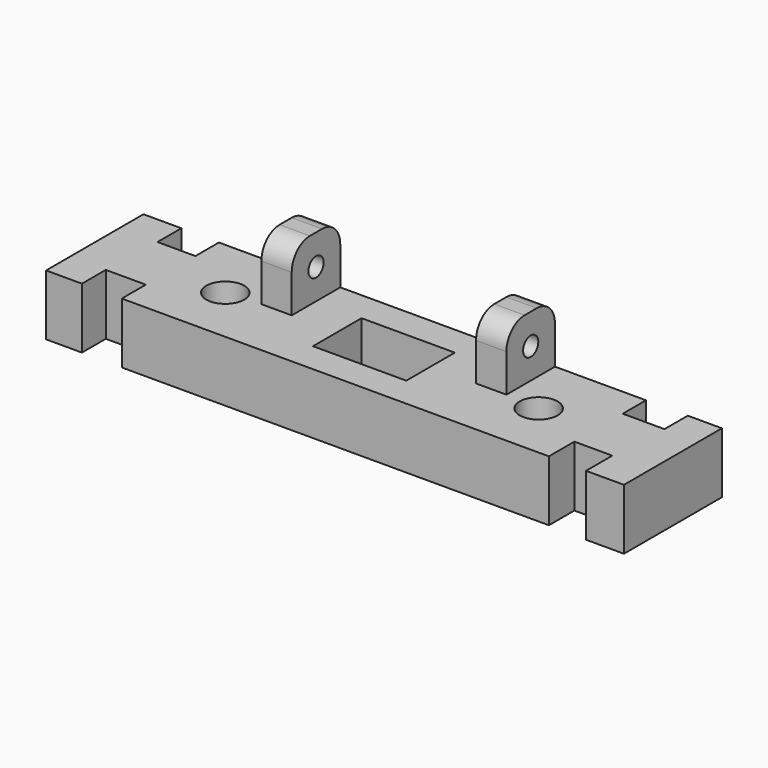
from build123d import *

# Parameters (mm, degrees)
F0_R     = 2.5
F0_W     = 12.3
F0_H     = 8
F1_DEPTH = 8
F2_W     = 4
F2_H     = 8
F3_DEPTH = 8
F4_R     = 3
F4_2_R   = 3
F6_D     = 2.5
F8_D     = 2.5


with BuildPart() as f1:
    # F0 (on Top) → F1 (new body)
    with BuildSketch(Plane.XY):
        Polygon((28.9232236624, 8.3138846643), (-27.3767763376, 8.3138846643), (-27.3767763376, 4.4477586634), (-27.3767763376, -3.7215636112), (-27.3767763376, -7.6861153357), (28.9232236624, -7.6861153357), (28.9232236624, -3.4892642871), (28.9232236624, 4.4832061976), align=None)
        with Locations((-19.8767763376, -0.0074267669)):
            Circle(F0_R, mode=Mode.SUBTRACT)
        with Locations((21.4232236624, 0)):
            Circle(F0_R, mode=Mode.SUBTRACT)
        with Locations((0.7732236624, 0.3138846643)):
            Rectangle(F0_W, F0_H, mode=Mode.SUBTRACT)
        Polygon((-27.3767763376, -3.7215636112), (-27.3767763376, 4.4477586634), (-32.3767763376, 4.4477586634), (-32.3767763376, 8.3847809583), (-37.3767763376, 8.3847809583), (-37.3767763376, -7.658585906), (-32.6523520052, -7.658585906), (-32.6523520052, -3.7215636112), align=None)
        Polygon((34.4248153269, 4.4832061976), (28.9232236624, 4.4832061976), (28.9232236624, -3.4892642871), (33.9232236624, -3.4892642871), (33.9232236624, -7.8199887648), (38.9232236624, -7.8199887648), (38.9232236624, 8.3218030632), (34.4248153269, 8.3218030632), align=None)
    extrude(amount=F1_DEPTH)


with BuildPart() as f3:
    # F2 (on face) → F3 (new body)
    with BuildSketch(Plane(origin=(0, 8.3138846643, 0), x_dir=(-1, 0, 0), z_dir=(0, 1, 0))):
        with Locations((13.3767763376, 12)):
            Rectangle(F2_W, F2_H)
    extrude(amount=-F3_DEPTH)

    # F4#2
    f4_2_edges = [f3.edges().sort_by_distance(p)[0] for p in [
        (-13.376776, 8.313885, 16),
        (-13.376776, 0.313885, 16),
    ]]
    fillet(f4_2_edges, radius=F4_2_R)

    # F6 (through all)
    with Locations(Plane(origin=(-15.3767763376, 0, 0), x_dir=(0, -1, 0), z_dir=(-1, 0, 0))):
        with Locations((-4.3138846643, 12)):
            Hole(F6_D / 2)


with BuildPart() as f3b:
    # F2 (on face) → F3, piece 2 (new body)
    with BuildSketch(Plane(origin=(0, 8.3138846643, 0), x_dir=(-1, 0, 0), z_dir=(0, 1, 0))):
        with Locations((-14.9232236624, 12)):
            Rectangle(F2_W, F2_H)
    extrude(amount=-F3_DEPTH)

    # F4
    f4_edges = [f3b.edges().sort_by_distance(p)[0] for p in [
        (14.923224, 8.313885, 16),
        (14.923224, 0.313885, 16),
    ]]
    fillet(f4_edges, radius=F4_R)

    # F8 (through all)
    with Locations(Plane.YZ.offset(16.9232236624)):
        with Locations((4.3138846643, 12)):
            Hole(F8_D / 2)


solid = Compound([f1.part, f3.part, f3b.part])
